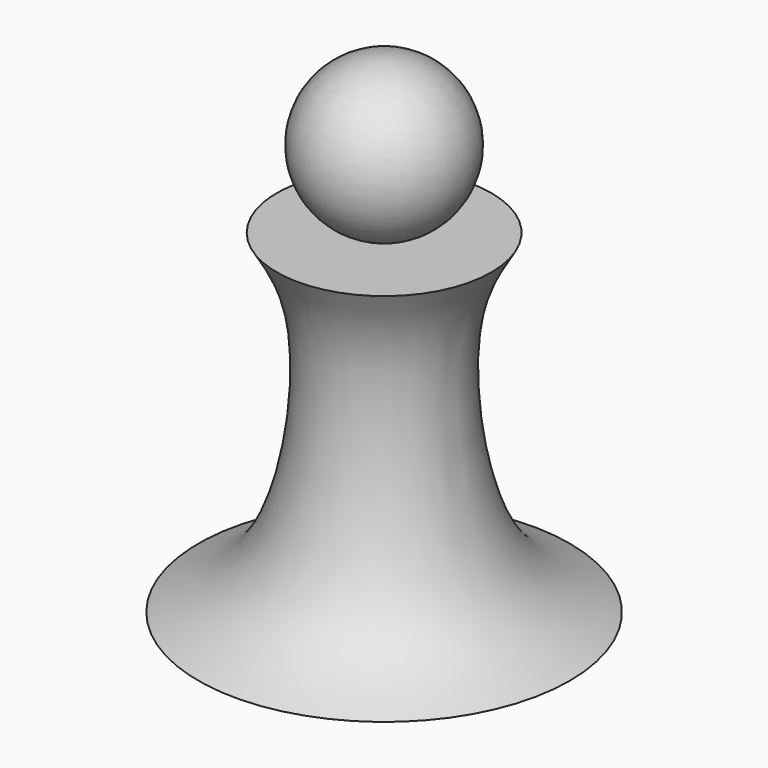
from build123d import *


with BuildPart() as f1:
    # F0 (on Front) → F1 (revolve)
    with BuildSketch(Plane.XZ):
        with BuildLine():
            Line((0, 50.9558878839), (0, 19.51203309))
            ThreePointArc((0, 19.51203309), (15.7655554955, 35.2339604869), (0, 50.9558878839))
        make_face()
    revolve(axis=Axis((0, 0, 1.1229962111), (0, 0, 1)))


with BuildPart() as f1b:
    # F0 (on Front) → F1, piece 2 (revolve)
    with BuildSketch(Plane.XZ):
        with BuildLine():
            Line((21.8997841318, 19.451345624), (0, 19.51203309))
            Line((0, 19.51203309), (0, -48.7098954618))
            Line((0, -48.7098954618), (37.9010699689, -48.7098954618))
            add(Edge.make_bspline(
                [(21.8997841318, 19.451345624), (19.187789203, 14.9728410572), (12.4100045671, 3.7802170879), (17.6897683792, -39.5467331591), (31.9630713774, -46.0177954698), (37.9010699689, -48.7098954618)],
                knots=[0, 0, 0, 0, 0.2803322125, 0.7006028451, 1, 1, 1, 1], degree=3))
        make_face()
    revolve(axis=Axis((0, 0, 1.1229962111), (0, 0, 1)))


solid = Compound([f1.part, f1b.part])
